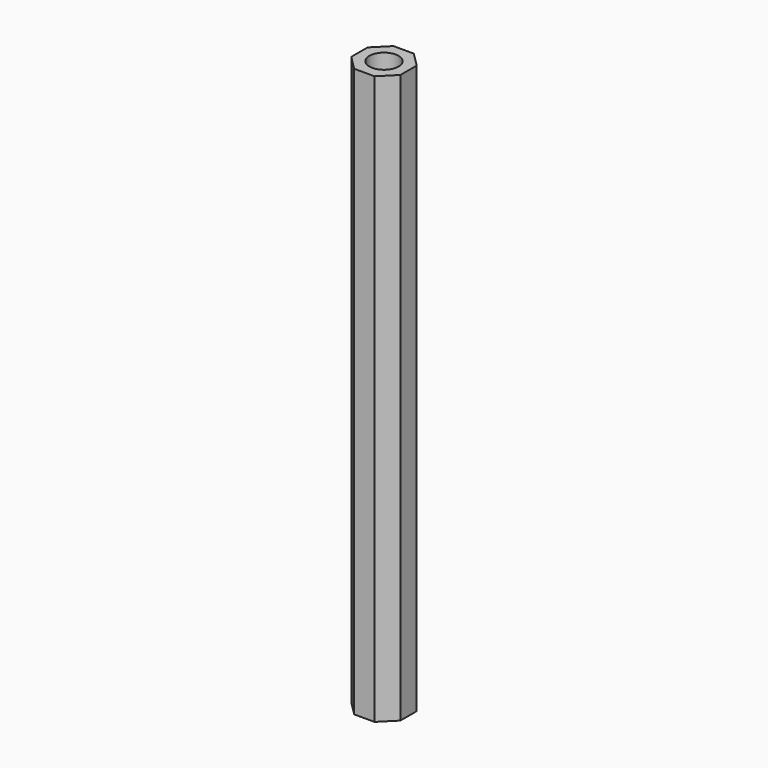
from build123d import *

# Parameters (mm, degrees)
F0_R     = 4
F1_DEPTH = 156.2


with BuildPart() as f1:
    # F0 (on Top) → F1 (new body)
    with BuildSketch(Plane.XY):
        Polygon((-2.795942, -6.75), (2.795942, -6.75), (6.75, -2.795942), (6.75, 2.795942), (2.795942, 6.75), (-2.795942, 6.75), (-6.75, 2.795942), (-6.75, -2.795942), align=None)
        Circle(F0_R, mode=Mode.SUBTRACT)
    extrude(amount=F1_DEPTH)


solid = f1.part
